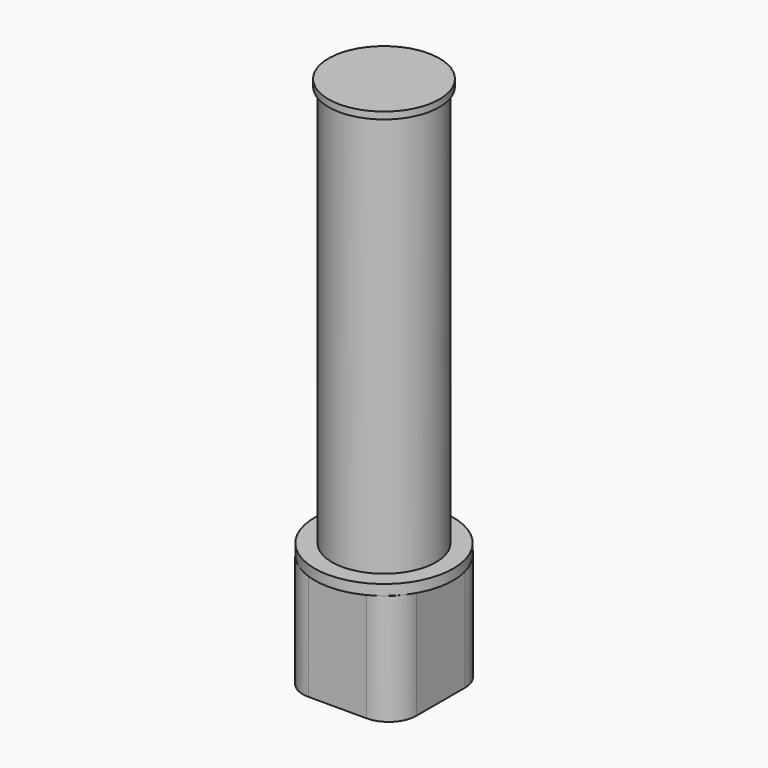
from build123d import *

# Parameters (mm, degrees)
F1_DEPTH = 16
F2_W     = 7.5
F2_H     = 58


with BuildPart() as f1:
    # F0 (on Top) → F1 (new body)
    with BuildSketch(Plane.XY):
        with BuildLine():
            Line((-4.2, -8.4), (4.2, -8.4))
            ThreePointArc((4.2, -8.4), (7.028427, -7.228427), (8.2, -4.4))
            Line((8.2, -4.4), (8.2, 4.4))
            ThreePointArc((8.2, 4.4), (7.028427, 7.228427), (4.2, 8.4))
            Line((4.2, 8.4), (-4.2, 8.4))
            ThreePointArc((-4.2, 8.4), (-7.028427, 7.228427), (-8.2, 4.4))
            Line((-8.2, 4.4), (-8.2, -4.4))
            ThreePointArc((-8.2, -4.4), (-7.028427, -7.228427), (-4.2, -8.4))
        make_face()
    extrude(amount=-F1_DEPTH)

    # F2 (on Right) → F3 (revolve)
    with BuildSketch(Plane.YZ):
        Polygon((-10, 0), (0, 0), (0, 1.5), (-7.5, 1.5), (-10, 1.5), align=None)
        with Locations((-3.75, 30.5)):
            Rectangle(F2_W, F2_H)
        Polygon((-7.5, 59.5), (0, 59.5), (0, 60.5), (-8, 60.5), (-8, 59.5), align=None)
    revolve(axis=Axis((0, 0, 30.5), (0, 0, 1)))


solid = f1.part
